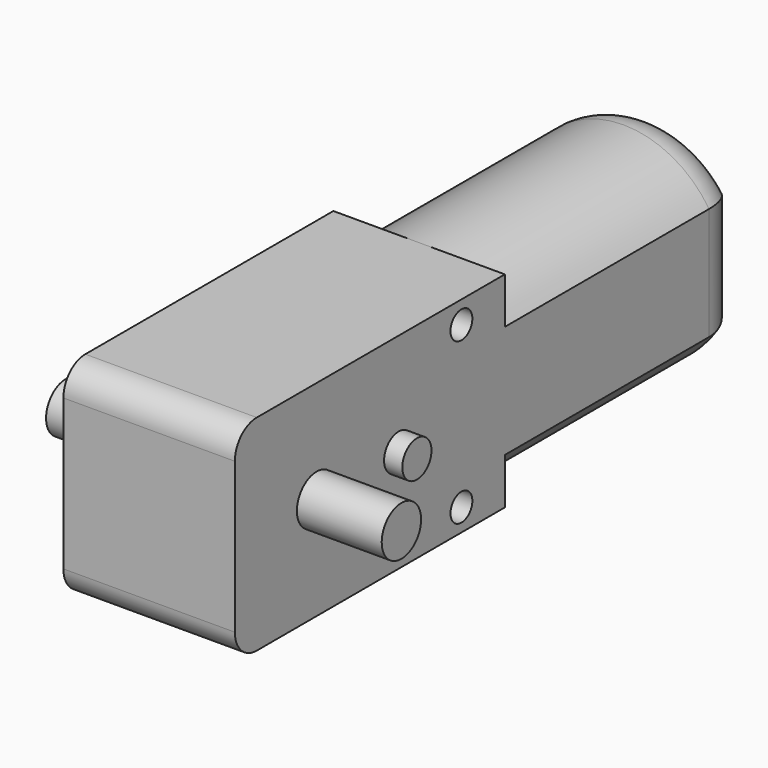
from build123d import *

# Parameters (mm, degrees)
SKETCH020_R             = 1.5
PAD012_DEPTH            = 18.8
SKETCH022_R             = 2.7
PAD010_DEPTH            = 8.7
SKETCH023_R             = 2.7
PAD011_DEPTH            = 9.3
PAD003_DEPTH            = 33
FILLET001_R             = 5
SKETCH021_R             = 2
PAD013_DEPTH            = 2
BODY005_PLACEMENT_ANGLE = 90


with BuildPart() as obj1:
    # Sketch020 → Pad012 (new body)
    with BuildSketch(Plane.XY):
        with BuildLine():
            Line((-8.25, -11.2), (8.25, -11.2))
            ThreePointArc((8.25, -11.2), (10.3713203436, -10.3213203436), (11.25, -8.2))
            Line((11.25, -8.2), (11.25, 25.8))
            Line((11.25, 25.8), (-11.25, 25.8))
            Line((-11.25, 25.8), (-11.25, -8.2))
            ThreePointArc((-11.25, -8.2), (-10.3713203436, -10.3213203436), (-8.25, -11.2))
        make_face()
        with Locations((-8.8, 19.85)):
            Circle(SKETCH020_R, mode=Mode.SUBTRACT)
        with Locations((8.8, 19.85)):
            Circle(SKETCH020_R, mode=Mode.SUBTRACT)
    extrude(amount=PAD012_DEPTH)

    # Sketch022 (on Face10 of Pad012) → Pad010 (join)
    with BuildSketch(Plane.XY.offset(18.8)):
        Circle(SKETCH022_R)
    extrude(amount=PAD010_DEPTH)

    # Sketch023 (on Face4 of Pad010) → Pad011 (join)
    with BuildSketch(Plane(origin=(0, 0, 0), x_dir=(1, 0, 0), z_dir=(0, 0, -1))):
        Circle(SKETCH023_R)
    extrude(amount=PAD011_DEPTH)

    # Sketch024 (on Face8 of Pad011) → Pad003 (join)
    with BuildSketch(Plane(origin=(0, 25.8, 0), x_dir=(-1, 0, 0), z_dir=(0, 1, 0))):
        with BuildLine():
            ThreePointArc((6.1808170981, 0), (11.25, 9.4), (6.1808170981, 18.8))
            Line((6.1808170981, 18.8), (-6.1808170981, 18.8))
            ThreePointArc((-6.1808170981, 18.8), (-11.25, 9.4), (-6.1808170981, 0))
            Line((6.1808170981, 0), (-6.1808170981, 0))
        make_face()
    extrude(amount=PAD003_DEPTH)

    # Fillet001
    fillet001_edges = [obj1.edges().sort_by_distance(p)[0] for p in [
        (-11.25, 58.8, 9.4),
        (0, 58.8, 18.8),
        (11.25, 58.8, 9.4),
        (0, 58.8, 0),
    ]]
    fillet(fillet001_edges, radius=FILLET001_R)

    # Sketch021 (on Face4 of Fillet001) → Pad013 (join)
    with BuildSketch(Plane(origin=(0, 0, 0), x_dir=(1, 0, 0), z_dir=(0, 0, -1))):
        with Locations((0, -11.25)):
            Circle(SKETCH021_R)
    extrude(amount=PAD013_DEPTH)


with BuildPart() as obj1_1:
    # Body005 placement: moved
    add(obj1.part.moved(Location((-45, 11, 14))).rotate(Axis((-45, 11, 14), (0, 1, 0)), BODY005_PLACEMENT_ANGLE))


with BuildPart() as part_mirroring:
    # Part__Mirroring: instance of obj1
    add(obj1_1.part.mirror(Plane(origin=(0, 34.7999992371, 13.9999961853), x_dir=(0, -1, 0), z_dir=(1, 0, -1.192e-07))))


solid = part_mirroring.part
